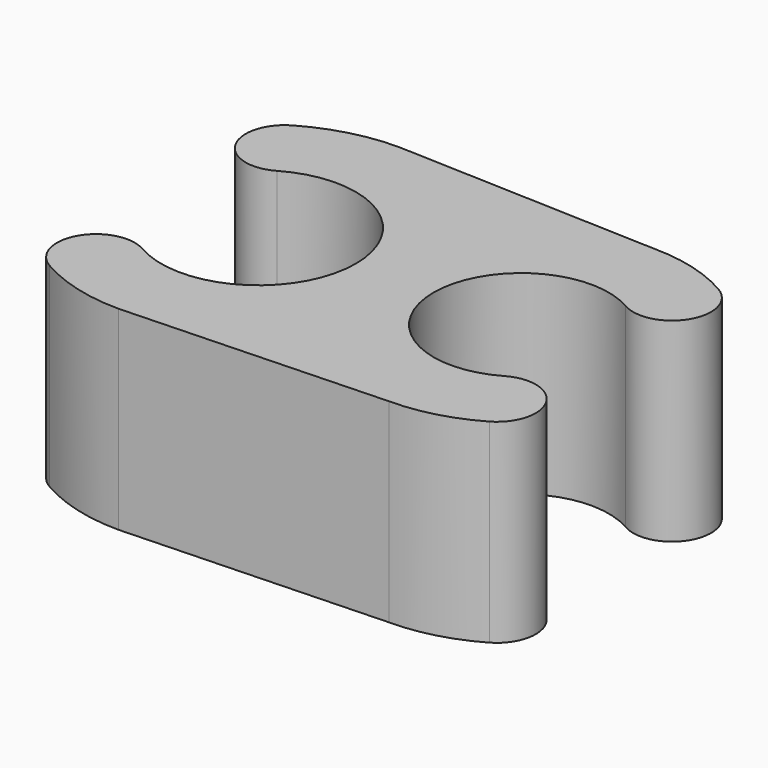
from build123d import *

# Parameters (mm, degrees)
PAD_DEPTH = 5


with BuildPart() as part:
    # Sketch001 → Pad (new body)
    with BuildSketch(Plane.XY):
        with BuildLine():
            Line((-3.5, 4.5), (3.25, 4.25))
            ThreePointArc((5.375, 3.680608), (4.349981, 4.105185), (3.25, 4.25))
            ThreePointArc((4.375, 1.948557), (5.741025, 2.314583), (5.375, 3.680608))
            ThreePointArc((4.375, 1.948557), (1, 0), (4.375, -1.948557))
            ThreePointArc((5.375, -3.680608), (5.741025, -2.314583), (4.375, -1.948557))
            ThreePointArc((3.25, -4.25), (4.349981, -4.105185), (5.375, -3.680608))
            Line((-3.5, -4.5), (3.25, -4.25))
            ThreePointArc((-5.75, -3.897114), (-4.664686, -4.346666), (-3.5, -4.5))
            ThreePointArc((-4.75, -2.165064), (-6.116025, -2.531089), (-5.75, -3.897114))
            ThreePointArc((-4.75, -2.165064), (-1, 0), (-4.75, 2.165064))
            ThreePointArc((-5.75, 3.897114), (-6.116025, 2.531089), (-4.75, 2.165064))
            ThreePointArc((-3.5, 4.5), (-4.664686, 4.346666), (-5.75, 3.897114))
        make_face()
    extrude(amount=PAD_DEPTH)


solid = part.part
